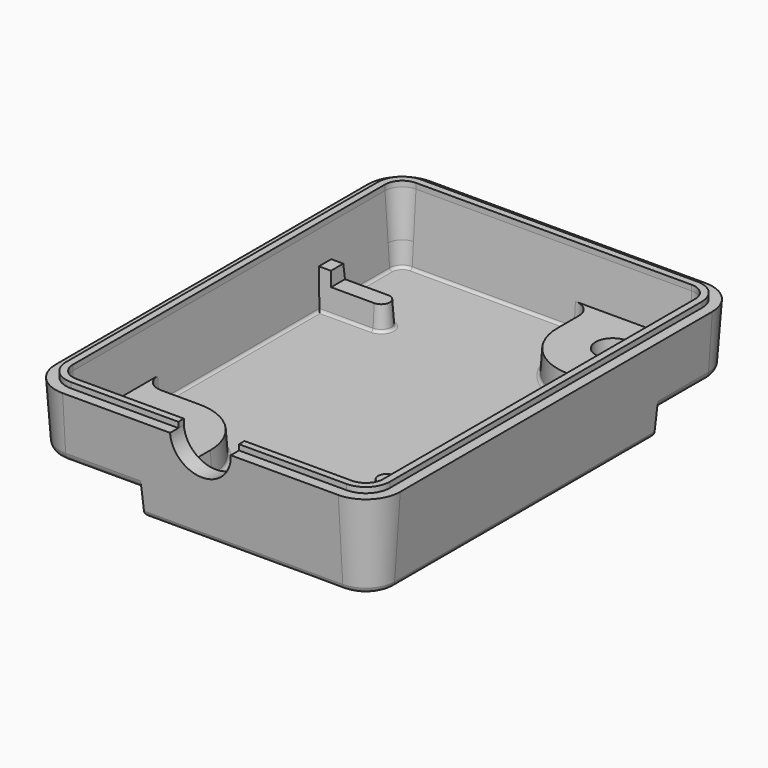
from build123d import *

# Parameters (mm, degrees)
PAD006_DEPTH    = 7.9375
PAD006_TAPER    = 4
POCKET_DEPTH    = 4.1402
POCKET_TAPER    = 4
POCKET001_DEPTH = 2.2098
POCKET001_TAPER = 4
SKETCH009_R     = 1.5875
POCKET002_DEPTH = 3.7983
POCKET003_DEPTH = 2.2098
POCKET003_TAPER = 4
FILLET_R        = 0.254
FILLET001_R     = 0.762
FILLET002_R     = 0.508
PAD007_DEPTH    = 0.508
POCKET004_DEPTH = 2.54
SKETCH013_W     = 1.488489
SKETCH013_H     = 1.6002
PAD008_DEPTH    = 1.27
PAD008_TAPER    = 4


with BuildPart() as part:
    # Sketch006 → Pad006 (new body)
    with BuildSketch(Plane.XY):
        with BuildLine():
            Line((-15.875, 1.0795), (-15.875, 37.0205))
            ThreePointArc((-12.7, 40.1955), (-14.945064, 39.265564), (-15.875, 37.0205))
            Line((-12.7, 40.1955), (12.7, 40.1955))
            ThreePointArc((15.875, 37.0205), (14.945064, 39.265564), (12.7, 40.1955))
            Line((15.875, 1.0795), (15.875, 37.0205))
            ThreePointArc((12.7, -2.0955), (14.945064, -1.165564), (15.875, 1.0795))
            Line((12.7, -2.0955), (-12.7, -2.0955))
            ThreePointArc((-15.875, 1.0795), (-14.945064, -1.165564), (-12.7, -2.0955))
        make_face()
    extrude(amount=-PAD006_DEPTH, taper=PAD006_TAPER)

    # Sketch007 (on Face9 of Pad006) → Pocket (cut)
    with BuildSketch(Plane.XY):
        with BuildLine():
            Line((-12.7, 38.608), (12.7, 38.608))
            ThreePointArc((14.2875, 37.0205), (13.822532, 38.143032), (12.7, 38.608))
            Line((14.2875, 37.0205), (14.2875, 1.0795))
            ThreePointArc((12.7, -0.508), (13.822532, -0.043032), (14.2875, 1.0795))
            Line((12.7, -0.508), (-12.7, -0.508))
            ThreePointArc((-14.2875, 1.0795), (-13.822532, -0.043032), (-12.7, -0.508))
            Line((-14.2875, 1.0795), (-14.2875, 37.0205))
            ThreePointArc((-12.7, 38.608), (-13.822532, 38.143032), (-14.2875, 37.0205))
        make_face()
    extrude(amount=-POCKET_DEPTH, taper=POCKET_TAPER, mode=Mode.SUBTRACT)

    # Sketch008 (on Face19 of Pocket) → Pocket001 (cut)
    with BuildSketch(Plane.XY.offset(-4.1402)):
        with BuildLine():
            Line((-13.997989, 37.0205), (-13.997989, 30.6705))
            Line((-13.997989, 30.6705), (-8.917989, 30.6705))
            ThreePointArc((-8.917989, 29.0703), (-8.117889, 29.8704), (-8.917989, 30.6705))
            Line((-8.917989, 29.0703), (-13.997989, 29.0703))
            Line((-13.997989, 29.0703), (-13.997989, 10.4775))
            ThreePointArc((-13.997989, 10.4775), (-13.533021, 9.354968), (-12.410489, 8.89))
            Line((-12.410489, 8.89), (-8.89, 8.89))
            ThreePointArc((-3.81, 3.81), (-5.297898, 7.402102), (-8.89, 8.89))
            Line((-3.81, 3.81), (-3.81, 1.369011))
            ThreePointArc((-3.81, 1.369011), (-3.345032, 0.246479), (-2.2225, -0.218489))
            Line((-2.2225, -0.218489), (12.7, -0.218489))
            ThreePointArc((12.7, -0.218489), (13.617817, 0.161683), (13.997989, 1.0795))
            Line((13.997989, 1.0795), (13.997989, 7.4295))
            Line((8.917989, 7.4295), (13.997989, 7.4295))
            ThreePointArc((8.917989, 9.0297), (8.117889, 8.2296), (8.917989, 7.4295))
            Line((13.997989, 9.0297), (8.917989, 9.0297))
            Line((13.997989, 9.0297), (13.997989, 27.6225))
            ThreePointArc((13.997989, 27.6225), (13.533021, 28.745032), (12.410489, 29.21))
            Line((12.410489, 29.21), (8.89, 29.21))
            ThreePointArc((3.81, 34.29), (5.297898, 30.697898), (8.89, 29.21))
            Line((3.81, 34.29), (3.81, 36.730989))
            ThreePointArc((3.81, 36.730989), (3.345032, 37.853521), (2.2225, 38.318489))
            Line((2.2225, 38.318489), (-12.7, 38.318489))
            ThreePointArc((-12.7, 38.318489), (-13.617817, 37.938317), (-13.997989, 37.0205))
        make_face()
    extrude(amount=-POCKET001_DEPTH, taper=POCKET001_TAPER, mode=Mode.SUBTRACT)

    # Sketch009 (on Face22 of Pocket001) → Pocket002 (cut, through all)
    with BuildSketch(Plane.XY.offset(-4.1402)):
        with Locations((-8.89, 3.81)):
            Circle(SKETCH009_R)
        with Locations((8.89, 34.29)):
            Circle(SKETCH009_R)
    extrude(amount=-POCKET002_DEPTH, mode=Mode.SUBTRACT)

    # Sketch010 (on Face4 of Pocket002) → Pocket003 (cut)
    with BuildSketch(Plane(origin=(0, 0, -7.9375), x_dir=(1, 0, 0), z_dir=(0, 0, -1))):
        with BuildLine():
            Line((-5.588, -3.81), (-5.588, 5.588))
            Line((-5.588, 5.588), (-18.288, 5.588))
            Line((-18.288, 5.588), (-18.288, -7.112))
            Line((-18.288, -7.112), (-8.89, -7.112))
            ThreePointArc((-8.89, -7.112), (-6.555133, -6.144867), (-5.588, -3.81))
        make_face()
        with BuildLine():
            Line((8.89, -30.988), (18.288, -30.988))
            Line((18.288, -30.988), (18.288, -43.688))
            Line((18.288, -43.688), (5.588, -43.688))
            Line((5.588, -43.688), (5.588, -34.29))
            ThreePointArc((8.89, -30.988), (6.555133, -31.955133), (5.588, -34.29))
        make_face()
    extrude(amount=-POCKET003_DEPTH, taper=POCKET003_TAPER, mode=Mode.SUBTRACT)

    # Fillet
    fillet_edges = [part.edges().sort_by_distance(p)[0] for p in [
        (3.655476, 35.510495, -6.35),
        (3.235767, 37.744256, -6.35),
        (-5.23875, 38.163965, -6.35),
        (-13.508552, 37.829052, -6.35),
        (-13.843465, 33.922762, -6.35),
        (-11.380727, 30.825024, -6.35),
        (-7.963365, 29.8704, -6.35),
        (-11.380727, 28.915776, -6.35),
        (-13.843465, 19.696638, -6.35),
        (-13.423756, 9.464233, -6.35),
        (-10.650245, 9.044524, -6.35),
        (-5.188632, 7.511368, -6.35),
        (-3.655476, 2.589505, -6.35),
        (-3.235767, 0.355744, -6.35),
        (5.23875, -0.063965, -6.35),
        (13.508552, 0.270948, -6.35),
        (13.843465, 4.177238, -6.35),
        (11.380727, 7.274976, -6.35),
        (7.963365, 8.2296, -6.35),
        (11.380727, 9.184224, -6.35),
        (13.843465, 18.403362, -6.35),
        (13.423756, 28.635767, -6.35),
        (10.650245, 29.055476, -6.35),
        (5.188632, 30.588632, -6.35),
    ]]
    fillet(fillet_edges, radius=FILLET_R)

    # Fillet001
    fillet001_edges = [part.edges().sort_by_distance(p)[0] for p in [
        (9.221262, 39.79498, -5.7277),
        (14.661854, 38.982354, -5.7277),
        (15.47448, 34.081512, -5.7277),
        (-9.221262, -1.69498, -5.7277),
        (-14.661854, -0.882354, -5.7277),
        (-15.47448, 4.018488, -5.7277),
    ]]
    fillet(fillet001_edges, radius=FILLET001_R)

    # Fillet002
    fillet002_edges = [part.edges().sort_by_distance(p)[0] for p in [
        (-15.319956, 22.06625, -7.9375),
        (-14.552589, 38.873089, -7.9375),
        (-3.556, 39.640456, -7.9375),
        (5.588, 36.965228, -7.9375),
        (6.555133, 31.955133, -7.9375),
        (12.104978, 30.988, -7.9375),
        (15.319956, 16.03375, -7.9375),
        (14.552589, -0.773089, -7.9375),
        (3.556, -1.540456, -7.9375),
        (-5.588, 1.134772, -7.9375),
        (-6.555133, 6.144867, -7.9375),
        (-12.104978, 7.112, -7.9375),
    ]]
    fillet(fillet002_edges, radius=FILLET002_R)

    # Sketch011 (on Face4 of Fillet002) → Pad007 (join)
    with BuildSketch(Plane.XY):
        with BuildLine():
            Line((-12.7, 39.243), (12.7, 39.243))
            ThreePointArc((14.9225, 37.0205), (14.271545, 38.592045), (12.7, 39.243))
            Line((14.9225, 37.0205), (14.9225, 1.0795))
            ThreePointArc((12.7, -1.143), (14.271545, -0.492045), (14.9225, 1.0795))
            Line((12.7, -1.143), (-12.7, -1.143))
            ThreePointArc((-14.9225, 1.0795), (-14.271545, -0.492045), (-12.7, -1.143))
            Line((-14.9225, 1.0795), (-14.9225, 37.0205))
            ThreePointArc((-12.7, 39.243), (-14.271545, 38.592045), (-14.9225, 37.0205))
        make_face()
        with BuildLine():
            Line((-14.2875, 37.0205), (-14.2875, 1.0795))
            ThreePointArc((-14.2875, 1.0795), (-13.822532, -0.043032), (-12.7, -0.508))
            Line((-12.7, -0.508), (12.7, -0.508))
            ThreePointArc((12.7, -0.508), (13.822532, -0.043032), (14.2875, 1.0795))
            Line((14.2875, 1.0795), (14.2875, 37.0205))
            ThreePointArc((14.2875, 37.0205), (13.822532, 38.143032), (12.7, 38.608))
            Line((12.7, 38.608), (-12.7, 38.608))
            ThreePointArc((-12.7, 38.608), (-13.822532, 38.143032), (-14.2875, 37.0205))
        make_face(mode=Mode.SUBTRACT)
    extrude(amount=PAD007_DEPTH)

    # Sketch012 (on Face17 of Pad007) → Pocket004 (cut, symmetric)
    with BuildSketch(Plane.XZ.offset(1.143)):
        with BuildLine():
            ThreePointArc((-2.794, 0), (0, -2.794), (2.794, 0))
            Line((2.794, 2.54), (2.794, 0))
            Line((-2.794, 2.54), (2.794, 2.54))
            Line((-2.794, 0), (-2.794, 2.54))
        make_face()
    extrude(amount=POCKET004_DEPTH, both=True, mode=Mode.SUBTRACT)

    # Sketch013 (on Face86 of Pocket004) → Pad008 (join)
    with BuildSketch(Plane.XY.offset(-4.1402)):
        with Locations((-13.634745, 29.8704)):
            Rectangle(SKETCH013_W, SKETCH013_H)
        with Locations((13.634745, 8.2296)):
            Rectangle(SKETCH013_W, SKETCH013_H)
    extrude(amount=PAD008_DEPTH, taper=PAD008_TAPER)


solid = part.part
